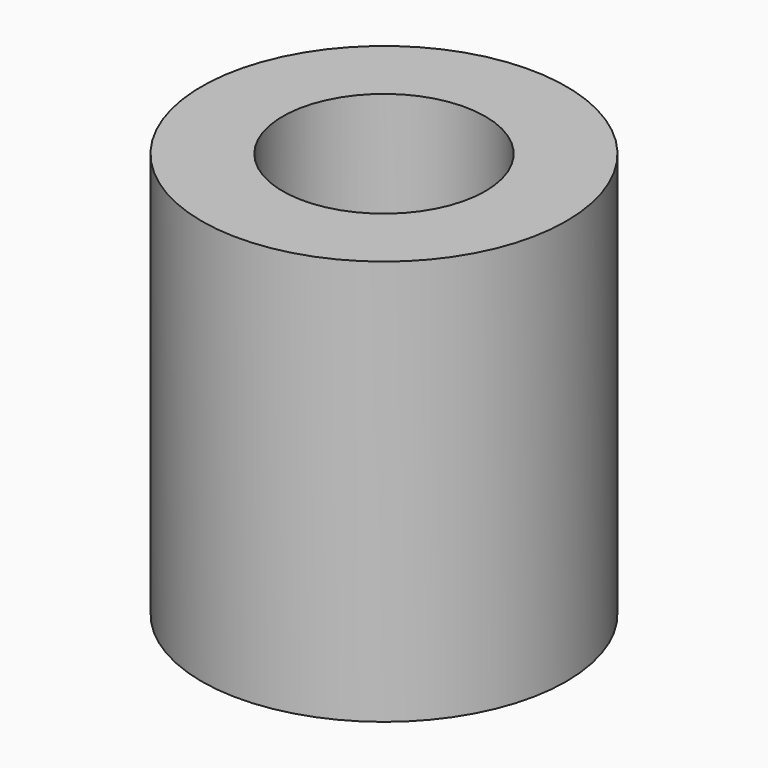
from build123d import *

# Parameters (mm, degrees)
F0_R     = 9
F0_R_2   = 5
F1_DEPTH = 20
F2_R     = 1.6
F3_DEPTH = 7.1


with BuildPart() as f1:
    # F0 (on Top) → F1 (new body)
    with BuildSketch(Plane.XY):
        Circle(F0_R)
        Circle(F0_R_2, mode=Mode.SUBTRACT)
    extrude(amount=F1_DEPTH)

    # F2 (on Front) → F3 (cut)
    with BuildSketch(Plane.XZ):
        Polygon((-1.186389, 12.457307), (-3.144049, 9.957127), (-1.957661, 7.011654), (1.186389, 6.566359), (3.144049, 9.066539), (1.957661, 12.012013), align=None)
        with Locations((0, 9.511833)):
            Circle(F2_R, mode=Mode.SUBTRACT)
        with Locations((0, 9.511833)):
            Circle(F2_R)
    extrude(amount=-F3_DEPTH, mode=Mode.SUBTRACT)


solid = f1.part
